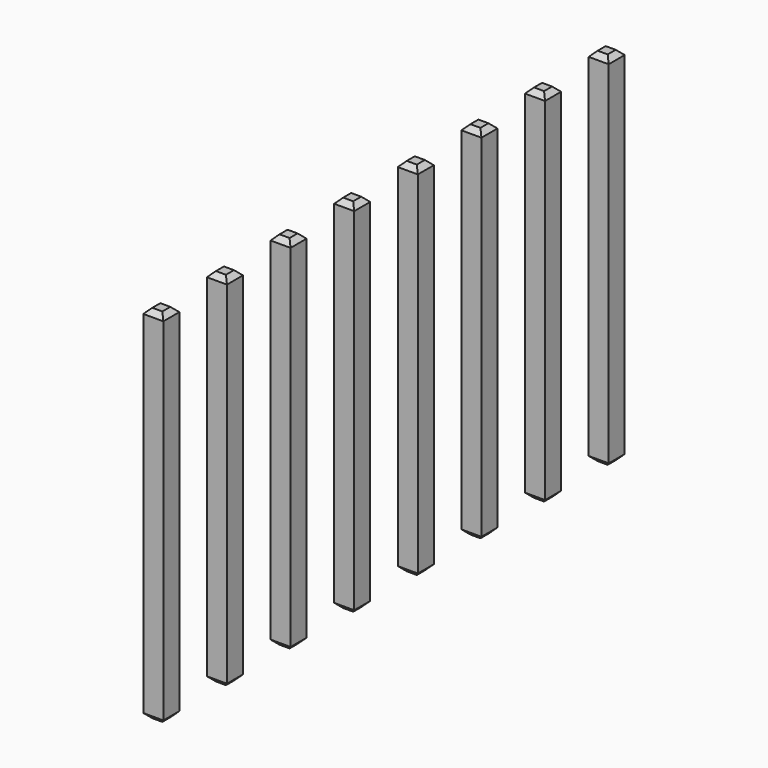
from build123d import *

# Parameters (mm, degrees)
SKETCH207_W       = 0.64
SKETCH207_H       = 11.54
PAD062_DEPTH      = 0.32
PAD062_DEPTH_BACK = 0.32
CHAMFER012_SIZE   = 0.16
ARRAY001_Y_COUNT  = 8
ARRAY001_Y_PITCH  = 2.54


with BuildPart() as part:
    # Sketch207 → Pad062 (new body, two sides)
    with BuildSketch(Plane.XZ) as pad062_sk:
        with Locations((0, 2.77)):
            Rectangle(SKETCH207_W, SKETCH207_H)
    extrude(amount=PAD062_DEPTH)
    extrude(pad062_sk.sketch, amount=-PAD062_DEPTH_BACK)

    # Chamfer012
    chamfer012_edges = [part.edges().sort_by_distance(p)[0] for p in [
        (0.32, 0, 8.54),
        (-0.32, 0, 8.54),
        (0, 0.32, 8.54),
        (0, -0.32, 8.54),
        (-0.32, 0, -3),
        (0.32, 0, -3),
        (0, 0.32, -3),
        (0, -0.32, -3),
    ]]
    chamfer(chamfer012_edges, length=CHAMFER012_SIZE)

    # Array001 Y: part ×8


with BuildPart() as part_1:
    add(part.part)
    with Locations(*[(0, i * ARRAY001_Y_PITCH, 0) for i in range(1, ARRAY001_Y_COUNT)]):
        add(part.part)


solid = part_1.part
